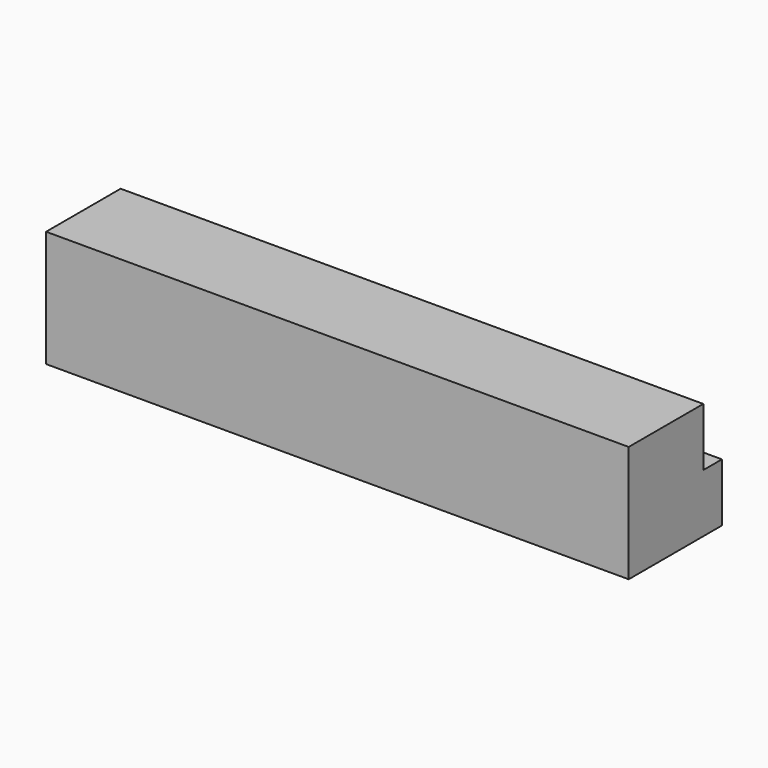
from build123d import *

# Parameters (mm, degrees)
F0_W     = 25.4
F0_H     = 25.4
F1_DEPTH = 63.5
F2_W     = 5.08
F2_H     = 12.7
F3_DEPTH = 127.001


with BuildPart() as f1:
    # F0 (on Right) → F1 (new body, symmetric)
    with BuildSketch(Plane.YZ):
        Rectangle(F0_W, F0_H)
    extrude(amount=F1_DEPTH, both=True)

    # F2 (on face) → F3 (cut, through all)
    with BuildSketch(Plane.YZ.offset(63.5)):
        with Locations((10.16, 6.35)):
            Rectangle(F2_W, F2_H)
    extrude(amount=-F3_DEPTH, mode=Mode.SUBTRACT)


solid = f1.part
